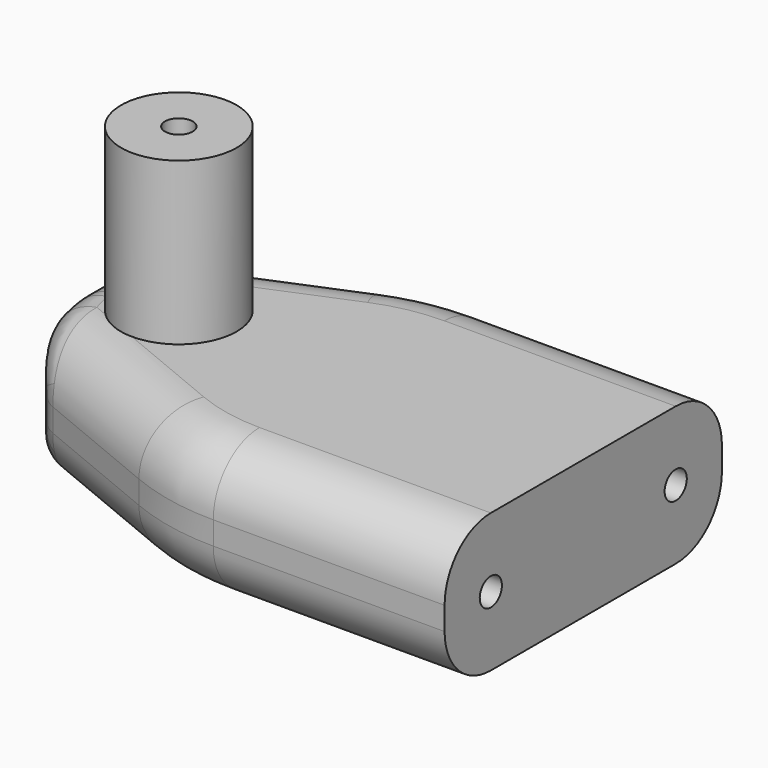
from build123d import *

# Parameters (mm, degrees)
TUBE002_R         = 5
TUBE002_R_2       = 1.2
TUBE002_DEPTH     = 16
CYLINDER001_R     = 1.2
CYLINDER001_DEPTH = 30
CYLINDER_R        = 1.2
CYLINDER_DEPTH    = 30
BOX_W             = 43
BOX_H             = 30
BOX_DEPTH         = 12
CHAMFER003_SIZE   = 10
FILLET002_R       = 10
CHAMFER004_SIZE   = 9
FILLET003_R       = 20
FILLET004_R       = 5
FILLET005_R       = 3


with BuildPart() as tube002:
    # Tube002 → Tube002 (new body)
    with BuildSketch(Plane.XY.offset(10)):
        Circle(TUBE002_R)
        Circle(TUBE002_R_2, mode=Mode.SUBTRACT)
    extrude(amount=TUBE002_DEPTH)


with BuildPart() as obj1:
    # Cylinder001 → Cylinder001 (new body)
    with BuildSketch(Plane(origin=(10, -10, 6), x_dir=(0, 0, -1), z_dir=(1, 0, 0))):
        Circle(CYLINDER001_R)
    extrude(amount=CYLINDER001_DEPTH)


with BuildPart() as fusion:
    # Cylinder → Cylinder (new body)
    with BuildSketch(Plane(origin=(10, 10, 6), x_dir=(0, 0, -1), z_dir=(1, 0, 0))):
        Circle(CYLINDER_R)
    extrude(amount=CYLINDER_DEPTH)

    # Fusion: union obj1
    add(obj1.part)


with BuildPart() as obj2:
    # Box → Box (new body)
    with BuildSketch(Plane(origin=(-8, -15, 0), x_dir=(1, 0, 0), z_dir=(0, 0, 1))):
        with Locations((21.5, 15)):
            Rectangle(BOX_W, BOX_H)
    extrude(amount=BOX_DEPTH)

    # Chamfer003
    chamfer003_edges = [obj2.edges().sort_by_distance(p)[0] for p in [
        (-8, -15, 6),
        (-8, 15, 6),
    ]]
    chamfer(chamfer003_edges, length=CHAMFER003_SIZE)

    # Fillet002
    fillet002_edges = [obj2.edges().sort_by_distance(p)[0] for p in [
        (-8, -5, 6),
        (-8, 5, 6),
    ]]
    fillet(fillet002_edges, radius=FILLET002_R)

    # Chamfer004
    chamfer004_edges = [obj2.edges().sort_by_distance(p)[0] for p in [
        (2, -15, 6),
        (2, 15, 6),
    ]]
    chamfer(chamfer004_edges, length=CHAMFER004_SIZE)

    # Fillet003
    fillet003_edges = [obj2.edges().sort_by_distance(p)[0] for p in [
        (11, -15, 6),
        (11, 15, 6),
    ]]
    fillet(fillet003_edges, radius=FILLET003_R)

    # Fillet004
    fillet004_edges = [obj2.edges().sort_by_distance(p)[0] for p in [
        (24.989124, -15, 12),
        (24.989124, 15, 12),
        (24.989124, -15, 0),
        (24.989124, 15, 0),
    ]]
    fillet(fillet004_edges, radius=FILLET004_R)

    # Fillet005
    fillet005_edges = [obj2.edges().sort_by_distance(p)[0] for p in [
        (-6.951701, 5.31511, 11.057223),
    ]]
    fillet(fillet005_edges, radius=FILLET005_R)

    # Cut: cut Fusion
    add(fusion.part, mode=Mode.SUBTRACT)

    # Fusion001: union Tube002
    add(tube002.part)


solid = obj2.part
